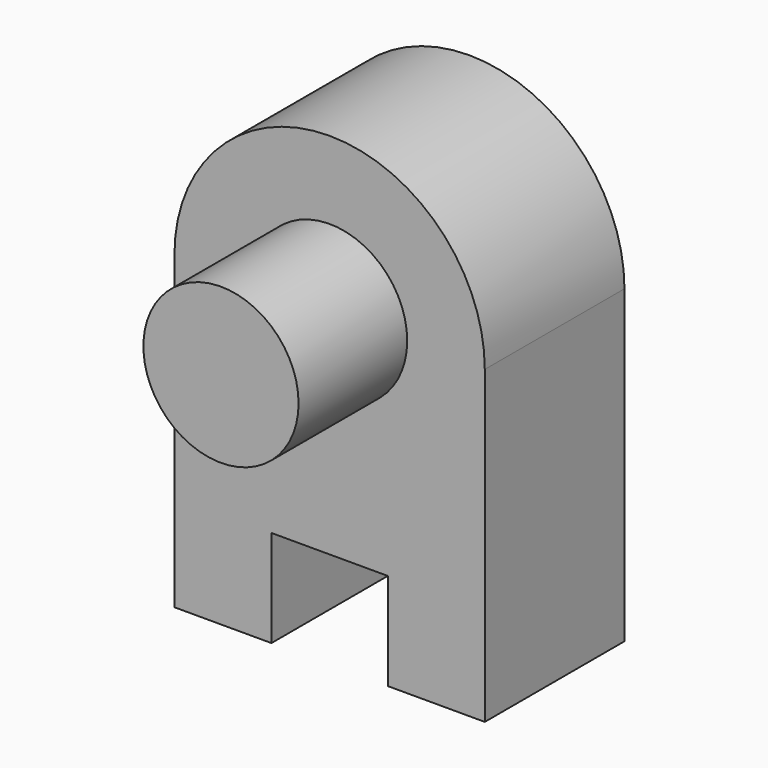
from build123d import *

# Parameters (mm, degrees)
F1_DEPTH = 1143
F2_R     = 508
F3_DEPTH = 889


with BuildPart() as f1:
    # F0 (on Front) → F1 (new body)
    with BuildSketch(Plane.XZ):
        with BuildLine():
            Line((-1016, 1016), (-1016, -1016))
            Line((-1016, -1016), (-381, -1016))
            Line((-381, -1016), (-381, -381))
            Line((-381, -381), (381, -381))
            Line((381, -381), (381, -1016))
            Line((381, -1016), (1016, -1016))
            Line((1016, -1016), (1016, 1016))
            ThreePointArc((1016, 1016), (0, 2032), (-1016, 1016))
        make_face()
    extrude(amount=F1_DEPTH)

    # F2 (on face) → F3 (join)
    with BuildSketch(Plane.XZ.offset(1143)):
        with Locations((0, 1016)):
            Circle(F2_R)
    extrude(amount=F3_DEPTH)


solid = f1.part
